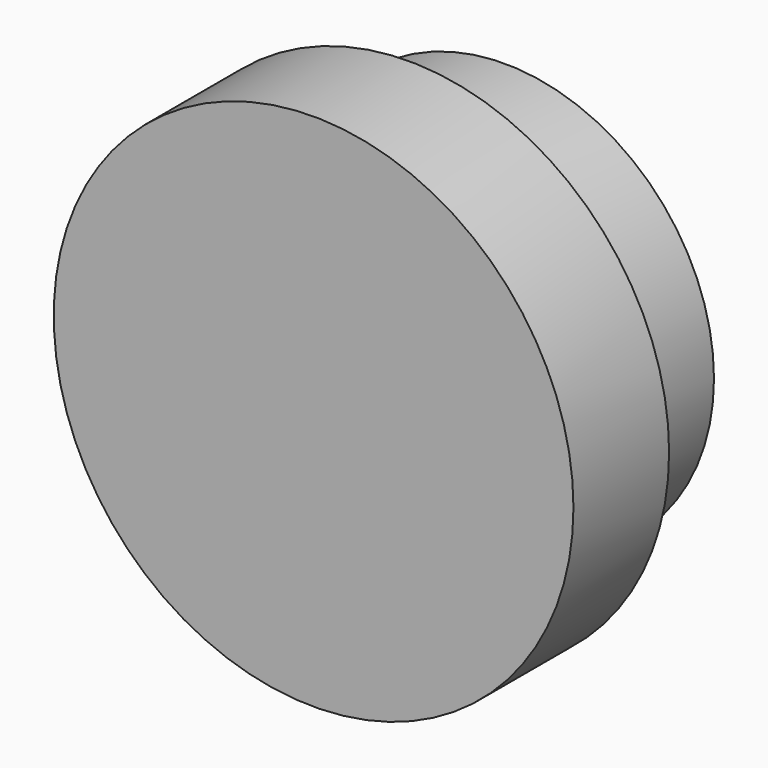
from build123d import *

# Parameters (mm, degrees)
F0_R     = 55.201714
F1_DEPTH = 25.4
F2_R     = 44.416682
F4_DEPTH = 25.4
F3_R     = 44.416682
F5_DEPTH = 25.4
F6_R     = 35.177102
F8_DEPTH = 50.8


with BuildPart() as f1:
    # F0 (on Front) → F1 (new body)
    with BuildSketch(Plane.XZ):
        Circle(F0_R)
    extrude(amount=F1_DEPTH)

    # F2 (on Front) → F4 (join)
    with BuildSketch(Plane.XZ):
        Circle(F2_R)
    extrude(amount=F4_DEPTH)

    # F3 (on face) → F5 (join)
    with BuildSketch(Plane(origin=(0, 25.4, 0), x_dir=(-1, 0, 0), z_dir=(0, 1, 0))):
        Circle(F3_R)
    extrude(amount=-F5_DEPTH)

    # F6 (on face) → F8 (join)
    with BuildSketch(Plane(origin=(0, 25.4, 0), x_dir=(-1, 0, 0), z_dir=(0, 1, 0))):
        Circle(F6_R)
    extrude(amount=-F8_DEPTH)


solid = f1.part
